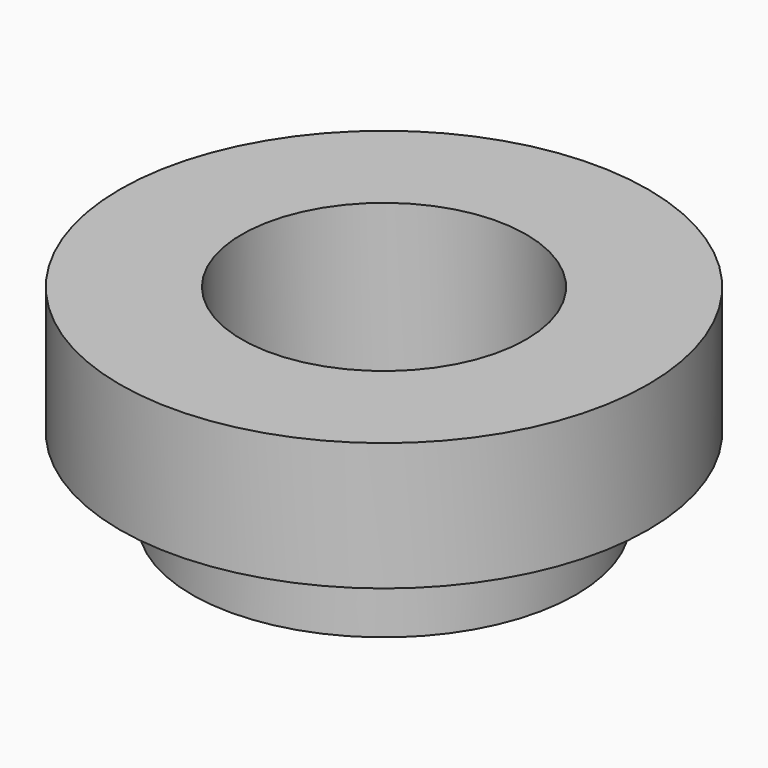
from build123d import *

# Parameters (mm, degrees)
F0_R     = 20.64
F1_DEPTH = 10
F2_R     = 15
F3_DEPTH = 6.3
F4_R     = 11.115
F5_DEPTH = 12.5


with BuildPart() as f1:
    # F0 (on Top) → F1 (new body)
    with BuildSketch(Plane.XY):
        Circle(F0_R)
    extrude(amount=F1_DEPTH)

    # F2 (on Top) → F3 (join, symmetric)
    with BuildSketch(Plane.XY):
        Circle(F2_R)
    extrude(amount=F3_DEPTH, both=True)

    # F4 (on Top) → F5 (cut, symmetric)
    with BuildSketch(Plane.XY):
        Circle(F4_R)
    extrude(amount=F5_DEPTH, both=True, mode=Mode.SUBTRACT)


solid = f1.part
